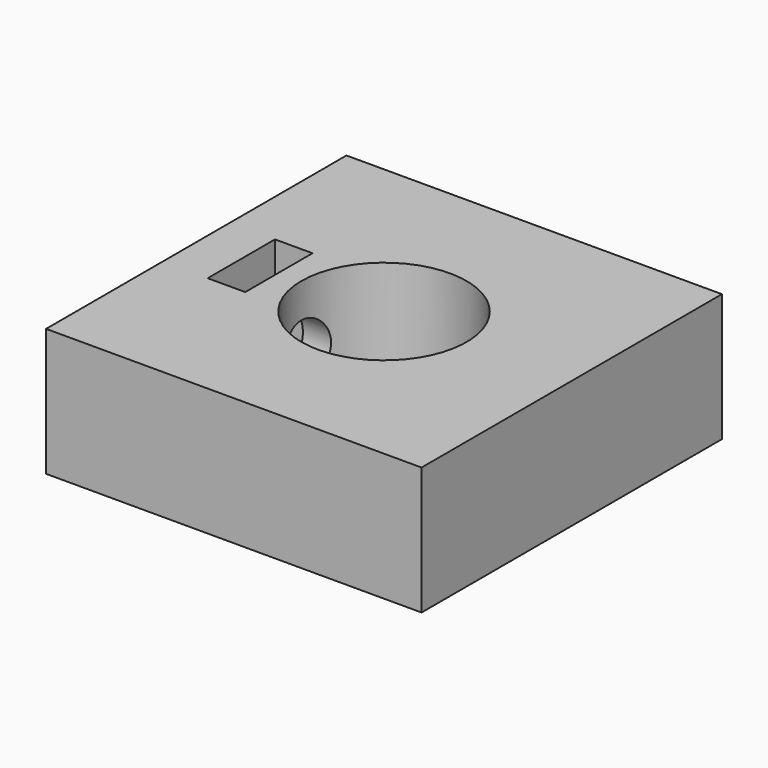
from build123d import *

# Parameters (mm, degrees)
SKETCH002_W         = 2.5
SKETCH002_H         = 5.6
EXTRUDE002_DEPTH    = 10
SKETCH001_R         = 2
EXTRUDE001_DEPTH    = 10
SKETCH_W            = 25
SKETCH_H            = 25
SKETCH_R            = 5.5
EXTRUDE_DEPTH       = 8.5
CUT_PLACEMENT_ANGLE = 180


with BuildPart() as extrude002:
    # Sketch002 → Extrude002 (new body)
    with BuildSketch(Plane.XY):
        with Locations((-8.25, 0)):
            Rectangle(SKETCH002_W, SKETCH002_H)
    extrude(amount=EXTRUDE002_DEPTH)


with BuildPart() as extrude002_1:
    # Extrude002 placement: moved
    add(extrude002.part.moved(Location((0, 0, -1))))


with BuildPart() as extrude001:
    # Sketch001 → Extrude001 (new body)
    with BuildSketch(Plane.YZ.offset(12.5)):
        with Locations((0, 4.2)):
            Circle(SKETCH001_R)
    extrude(amount=EXTRUDE001_DEPTH)


with BuildPart() as extrude001_1:
    # Extrude001 placement: moved
    add(extrude001.part.moved(Location((-8, 0, 0))))


with BuildPart() as cut001:
    # Sketch → Extrude (new body)
    with BuildSketch(Plane.XY):
        Rectangle(SKETCH_W, SKETCH_H)
        Circle(SKETCH_R, mode=Mode.SUBTRACT)
    extrude(amount=EXTRUDE_DEPTH)

    # Cut: cut Extrude001
    add(extrude001_1.part, mode=Mode.SUBTRACT)


with BuildPart() as cut001_1:
    # Cut placement: moved
    add(cut001.part.rotate(Axis((0, 0, 0), (0, 0, 1)), CUT_PLACEMENT_ANGLE))

    # Cut001: cut Extrude002
    add(extrude002_1.part, mode=Mode.SUBTRACT)


solid = cut001_1.part
